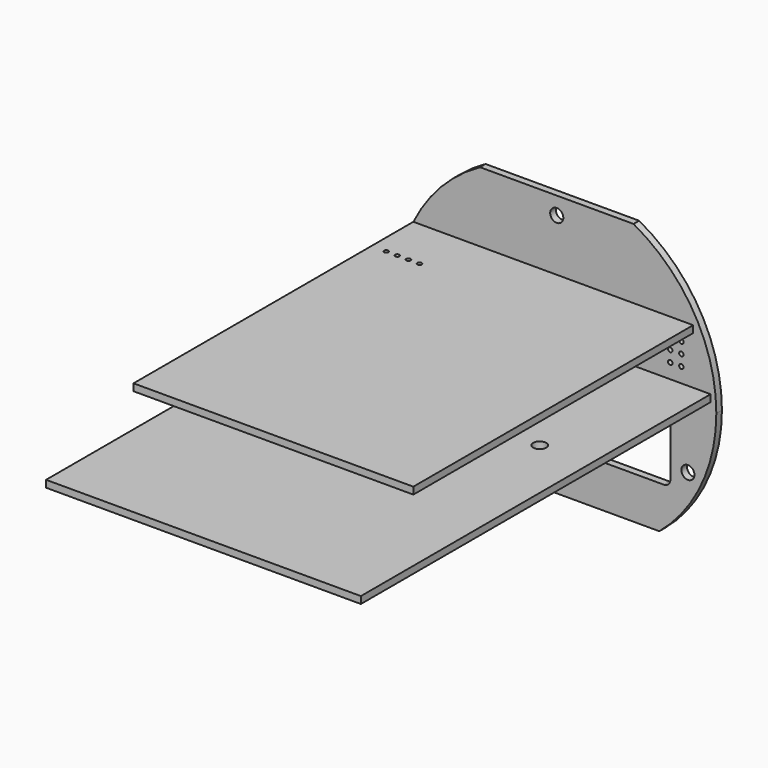
from build123d import *

# Parameters (mm, degrees)
F1_DEPTH  = 1.6
F2_R      = 0.508
F2_R_2    = 0.75
F2_R_3    = 1.5
F3_DEPTH  = 25
F5_W      = 72
F5_H      = 1.6
F6_DEPTH  = 100
F7_R      = 1.5
F7_R_2    = 0.508
F8_DEPTH  = 25
F9_R      = 0.508
F10_DEPTH = 1.6
F11_W     = 64
F11_H     = 1.6
F12_DEPTH = 80
F13_R     = 0.508
F14_DEPTH = 25


with BuildPart() as f1:
    # F0 (on Front) → F1 (new body)
    with BuildSketch(Plane.XZ):
        with BuildLine():
            ThreePointArc((23.4617477536, -27.9606221738), (33.0802342268, -15.4255665535), (36.5, 0))
            ThreePointArc((36.5, 0), (31.4092527777, 18.5932471598), (17.5570498661, 32))
            Line((17.5570498661, 32), (-17.5570498661, 32))
            ThreePointArc((-17.5570498661, 32), (-36.3242961722, 3.5770808757), (-23.4617477536, -27.9606221738))
            Line((-23.4617477536, -27.9606221738), (23.4617477536, -27.9606221738))
        make_face()
    extrude(amount=F1_DEPTH)

    # F2 (on face) → F3 (cut)
    with BuildSketch(Plane.XZ.offset(1.6)):
        with Locations((28.5, 14.46)):
            Circle(F2_R)
        with Locations((28.5, 11.92)):
            Circle(F2_R)
        with Locations((28.5, 9.38)):
            Circle(F2_R)
        with Locations((28.5, 6.84)):
            Circle(F2_R)
        with Locations((25.96, 14.46)):
            Circle(F2_R)
        with Locations((25.96, 11.92)):
            Circle(F2_R)
        with Locations((25.96, 9.38)):
            Circle(F2_R)
        with Locations((25.96, 6.84)):
            Circle(F2_R)
        with BuildLine():
            ThreePointArc((26, -5.25), (25.5606601718, -4.1893398282), (24.5, -3.75))
            Line((24.5, -3.75), (11, -3.75))
            ThreePointArc((11, -3.75), (9.9393398282, -4.1893398282), (9.5, -5.25))
            Line((9.5, -5.25), (9.5, -16.75))
            ThreePointArc((9.5, -16.75), (9.9393398282, -17.8106601718), (11, -18.25))
            Line((11, -18.25), (24.5, -18.25))
            ThreePointArc((24.5, -18.25), (25.5606601718, -17.8106601718), (26, -16.75))
            Line((26, -16.75), (26, -5.25))
        make_face()
        with Locations((-22.5, -5.405)):
            Circle(F2_R_2)
        with Locations((-20, -5.405)):
            Circle(F2_R_2)
        with Locations((-18, -5.405)):
            Circle(F2_R_2)
        with Locations((-15.5, -5.405)):
            Circle(F2_R_2)
        with Locations((-22.5, -13.905)):
            Circle(F2_R_2)
        with Locations((-20, -13.905)):
            Circle(F2_R_2)
        with Locations((-18, -13.905)):
            Circle(F2_R_2)
        with Locations((-15.5, -13.905)):
            Circle(F2_R_2)
        with Locations((-4.5, -5.405)):
            Circle(F2_R_2)
        with Locations((-2, -5.405)):
            Circle(F2_R_2)
        with Locations((0, -5.405)):
            Circle(F2_R_2)
        with Locations((2.5, -5.405)):
            Circle(F2_R_2)
        with Locations((-4.5, -13.905)):
            Circle(F2_R_2)
        with Locations((-2, -13.905)):
            Circle(F2_R_2)
        with Locations((0, -13.905)):
            Circle(F2_R_2)
        with Locations((2.5, -13.905)):
            Circle(F2_R_2)
        with Locations((-25.96, 6.84)):
            Circle(F2_R)
        with Locations((-25.96, 9.38)):
            Circle(F2_R)
        with Locations((-25.96, 11.92)):
            Circle(F2_R)
        with Locations((-25.96, 14.46)):
            Circle(F2_R)
        with Locations((-28.5, 14.46)):
            Circle(F2_R)
        with Locations((-28.5, 11.92)):
            Circle(F2_R)
        with Locations((-28.5, 9.38)):
            Circle(F2_R)
        with Locations((-28.5, 6.84)):
            Circle(F2_R)
        with Locations((0, 28)):
            Circle(F2_R_3)
        with Locations((-30, -14)):
            Circle(F2_R_3)
        with Locations((30, -14)):
            Circle(F2_R_3)
    extrude(amount=-F3_DEPTH, mode=Mode.SUBTRACT)


with BuildPart() as f6:
    # F5 (on offset) → F6 (new body)
    with BuildSketch(Plane.XZ.offset(2.6)):
        with Locations((0, 3.3193778262)):
            Rectangle(F5_W, F5_H)
    extrude(amount=F6_DEPTH)

    # F7 (on face) → F8 (cut)
    with BuildSketch(Plane.XY.offset(4.1193778262)):
        with Locations((24.5, -37.1)):
            Circle(F7_R)
        with BuildLine():
            ThreePointArc((8, -4.6), (9.4142135624, -4.0142135624), (10, -2.6))
            Line((10, -2.6), (-10, -2.6))
            ThreePointArc((-10, -2.6), (-9.4142135624, -4.0142135624), (-8, -4.6))
            Line((-8, -4.6), (8, -4.6))
        make_face()
        with Locations((-24.5, -37.1)):
            Circle(F7_R)
        with Locations((-26, -14.57)):
            Circle(F7_R_2)
        with Locations((-28.54, -14.57)):
            Circle(F7_R_2)
        with Locations((-31.08, -14.57)):
            Circle(F7_R_2)
        with Locations((-33.62, -14.57)):
            Circle(F7_R_2)
    extrude(amount=-F8_DEPTH, mode=Mode.SUBTRACT)


with BuildPart() as f10:
    # F9 (on Right) → F10 (new body)
    with BuildSketch(Plane.YZ):
        Polygon((-2.6, 4.1193778262), (-2.6, 16.1193778262), (-25.6, 16.1193778262), (-42.6, 11.1193778262), (-42.6, 4.1193778262), align=None)
        with Locations((-40.06, 8.7993778262)):
            Circle(F9_R, mode=Mode.SUBTRACT)
        with Locations((-37.52, 8.7993778262)):
            Circle(F9_R, mode=Mode.SUBTRACT)
        with Locations((-34.98, 8.7993778262)):
            Circle(F9_R, mode=Mode.SUBTRACT)
        with Locations((-32.44, 8.7993778262)):
            Circle(F9_R, mode=Mode.SUBTRACT)
        with Locations((-29.9, 8.7993778262)):
            Circle(F9_R, mode=Mode.SUBTRACT)
        with Locations((-27.36, 8.7993778262)):
            Circle(F9_R, mode=Mode.SUBTRACT)
        with Locations((-24.82, 8.7993778262)):
            Circle(F9_R, mode=Mode.SUBTRACT)
        with Locations((-16.78, 6.84)):
            Circle(F9_R, mode=Mode.SUBTRACT)
        with Locations((-14.24, 6.84)):
            Circle(F9_R, mode=Mode.SUBTRACT)
        with Locations((-22.28, 8.7993778262)):
            Circle(F9_R, mode=Mode.SUBTRACT)
        with Locations((-16.78, 9.38)):
            Circle(F9_R, mode=Mode.SUBTRACT)
        with Locations((-14.24, 9.38)):
            Circle(F9_R, mode=Mode.SUBTRACT)
        with Locations((-16.78, 11.92)):
            Circle(F9_R, mode=Mode.SUBTRACT)
        with Locations((-14.24, 11.92)):
            Circle(F9_R, mode=Mode.SUBTRACT)
        with Locations((-16.78, 14.46)):
            Circle(F9_R, mode=Mode.SUBTRACT)
        with Locations((-14.24, 14.46)):
            Circle(F9_R, mode=Mode.SUBTRACT)
    extrude(amount=F10_DEPTH)


with BuildPart() as f12:
    # F11 (on face) → F12 (new body)
    with BuildSketch(Plane(origin=(0, -2.6, 0), x_dir=(-1, 0, 0), z_dir=(0, 1, 0))):
        with Locations((0, 15.9193778262)):
            Rectangle(F11_W, F11_H)
    extrude(amount=-F12_DEPTH)

    # F13 (on face) → F14 (cut)
    with BuildSketch(Plane.XY.offset(16.7193778262)):
        with Locations((-21, -14.57)):
            Circle(F13_R)
        with Locations((-23.54, -14.57)):
            Circle(F13_R)
        with Locations((-26.08, -14.57)):
            Circle(F13_R)
        with Locations((-28.62, -14.57)):
            Circle(F13_R)
    extrude(amount=-F14_DEPTH, mode=Mode.SUBTRACT)


solid = Compound([f1.part, f6.part, f10.part, f12.part])
